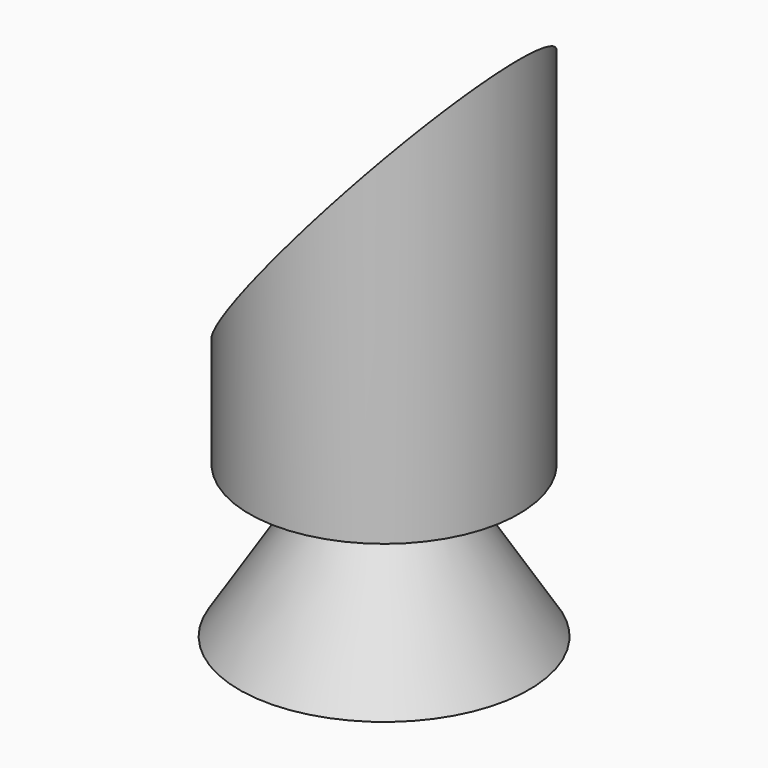
from build123d import *

# Parameters (mm, degrees)
F3_DEPTH = 17.4


with BuildPart() as f1:
    # F0 (on Front) → F1 (revolve)
    with BuildSketch(Plane.XZ):
        Polygon((-15.137501, 0), (0, 0), (0, 58.012504), (-14.087501, 58.012504), (-14.087501, 15.8375), (-5.162501, 15.8375), align=None)
    revolve(axis=Axis((0, 0, 29.006252), (0, 0, -1)))

    # F2 (on Front) → F3 (cut, symmetric)
    with BuildSketch(Plane.XZ):
        Polygon((-20.0375, 16.537501), (16.012499, 59.937503), (-20.0375, 60.987502), align=None)
    extrude(amount=F3_DEPTH, both=True, mode=Mode.SUBTRACT)


solid = f1.part
